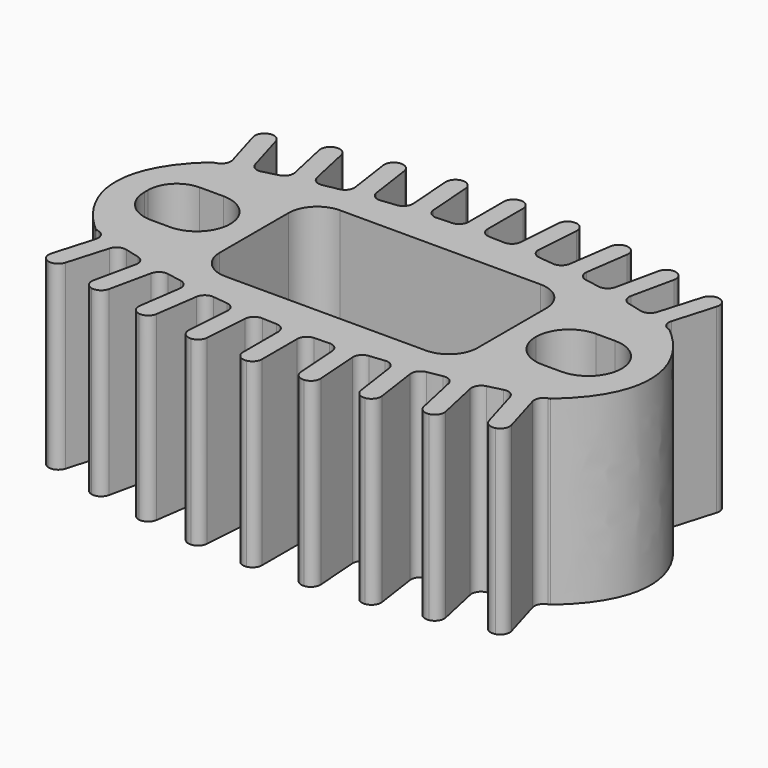
from build123d import *

# Parameters (mm, degrees)
F1_DEPTH = 19


with BuildPart() as f1:
    # F0 (on Top) → F1 (new body)
    with BuildSketch(Plane.XY):
        with BuildLine():
            ThreePointArc((-23.5744510833, 7.7289309208), (-23.7946693875, 7.6570646838), (-24.0146704918, 7.5845362642))
            add(Edge.make_bspline(
                [(-24.0146704918, 7.5845362642), (-32.6467106957, 0), (-24.0146704918, -7.5845362642)],
                knots=[5.7431038594, 5.7431038594, 5.7431038594, 6.823266755, 6.823266755, 6.823266755], degree=2, weights=[1, 0.8576668033, 1]))
            ThreePointArc((-24.0146704918, -7.5845362642), (-23.7946693875, -7.6570646838), (-23.5744510833, -7.7289309208))
            ThreePointArc((-23.5744510833, -7.7289309208), (-22.9988777719, -8.2132908876), (-22.9237665617, -8.9617877281))
            Line((-22.9237665617, -8.9617877281), (-24.1716508667, -13.2116913812))
            ThreePointArc((-24.1716508667, -13.2116913812), (-24.0915152434, -13.9695863582), (-23.5006255556, -14.4509135765))
            ThreePointArc((-23.5006255556, -14.4509135765), (-22.7359954729, -14.3727812885), (-22.2526649195, -13.7751564949))
            Line((-22.2526649195, -13.7751564949), (-21.0078196566, -9.5356028687))
            ThreePointArc((-21.0078196566, -9.5356028687), (-20.5376140383, -8.9452127943), (-19.7886840367, -8.8516306589))
            ThreePointArc((-19.7886840367, -8.8516306589), (-19.0399299681, -9.0489117498), (-18.2892299346, -9.2386535316))
            ThreePointArc((-18.2892299346, -9.2386535316), (-17.6805692737, -9.6807184748), (-17.552252285, -10.4219498588))
            Line((-17.552252285, -10.4219498588), (-18.4994193742, -14.7760066978))
            ThreePointArc((-18.4994193742, -14.7760066978), (-18.36544049, -15.5262222031), (-17.741771863, -15.9641846324))
            ThreePointArc((-17.741771863, -15.9641846324), (-16.9846222925, -15.8317399691), (-16.5451256422, -15.2011372769))
            Line((-16.5451256422, -15.2011372769), (-15.6002514896, -10.8576208968))
            ThreePointArc((-15.6002514896, -10.8576208968), (-15.173361847, -10.235190984), (-14.4330161063, -10.0884192305))
            ThreePointArc((-14.4330161063, -10.0884192305), (-13.6720959054, -10.2317821681), (-12.9097725458, -10.3674861824))
            ThreePointArc((-12.9097725458, -10.3674861824), (-12.2711261305, -10.7650034404), (-12.0902572373, -11.4951922226))
            Line((-12.0902572373, -11.4951922226), (-12.7282319437, -15.9324037699))
            ThreePointArc((-12.7282319437, -15.9324037699), (-12.5410901177, -16.671129066), (-11.8878024384, -17.0634966669))
            ThreePointArc((-11.8878024384, -17.0634966669), (-11.142000044, -16.8773982241), (-10.7485890599, -16.2170334465))
            Line((-10.7485890599, -16.2170334465), (-10.1121495002, -11.7904990785))
            ThreePointArc((-10.1121495002, -11.7904990785), (-9.7307511651, -11.1392010872), (-9.0027623175, -10.939987631))
            ThreePointArc((-9.0027623175, -10.939987631), (-8.2335534592, -11.0287018707), (-7.4634913986, -11.1096766008))
            ThreePointArc((-7.4634913986, -11.1096766008), (-6.7981136247, -11.4606205168), (-6.5656144934, -12.1760458226))
            Line((-6.5656144934, -12.1760458226), (-6.8953114493, -16.7858116084))
            ThreePointArc((-6.8953114493, -16.7858116084), (-6.6033442548, -17.5658757224), (-5.8219505199, -17.8542655552))
            ThreePointArc((-5.8219505199, -17.8542655552), (-5.1891344039, -17.5626357117), (-4.9004072201, -16.9284899748))
            Line((-4.9004072201, -16.9284899748), (-4.5714797982, -12.3294836802))
            ThreePointArc((-4.5714797982, -12.3294836802), (-4.237516289, -11.6526364759), (-3.5255939988, -11.4019964629))
            ThreePointArc((-3.5255939988, -11.4019964629), (-2.7520161951, -11.4356099372), (-1.9781394933, -11.4614427546))
            ThreePointArc((-1.9781394933, -11.4614427546), (-1.2894209734, -11.7640249988), (-1.0064763663, -12.4610411848))
            Line((-1.0064763663, -12.4610411848), (-1.0064763663, -17.0825821273))
            ThreePointArc((-1.0064763663, -17.0825821273), (-0.659603934, -17.8398300261), (0.1403723943, -18.0717410839))
            ThreePointArc((0.1403723943, -18.0717410839), (0.7507715326, -17.735709695), (0.9935236337, -17.0825821273))
            Line((0.9935236337, -17.0825821273), (0.9935236337, -12.4718281599))
            ThreePointArc((0.9935236337, -12.4718281599), (1.2783505154, -11.7728808008), (1.9705784554, -11.4720914352))
            ThreePointArc((1.9705784554, -11.4720914352), (2.7445832293, -11.4504328575), (3.5183310741, -11.4209921241))
            ThreePointArc((3.5183310741, -11.4209921241), (4.2268807883, -11.6736708067), (4.5588290503, -12.3487260382))
            Line((4.5588290503, -12.3487260382), (4.8820707752, -16.8682358998))
            ThreePointArc((4.8820707752, -16.8682358998), (5.2236995592, -17.5518111217), (5.9483195342, -17.7945274207))
            ThreePointArc((5.9483195342, -17.7945274207), (6.6344372949, -17.4527200472), (6.8769750044, -16.7255575334))
            Line((6.8769750044, -16.7255575334), (6.5545028136, -12.216807163))
            ThreePointArc((6.5545028136, -12.216807163), (6.7887416553, -11.4993213245), (7.4577478102, -11.1499153599))
            ThreePointArc((7.4577478102, -11.1499153599), (8.2282354034, -11.0730950974), (8.9979115494, -10.9885308364))
            ThreePointArc((8.9979115494, -10.9885308364), (9.722681851, -11.1900183648), (10.1019422358, -11.8396727151))
            Line((10.1019422358, -11.8396727151), (10.7467785198, -16.3246075829))
            ThreePointArc((10.7467785198, -16.3246075829), (11.1363025708, -16.982069615), (11.8763914797, -17.1724737036))
            ThreePointArc((11.8763914797, -17.1724737036), (12.5363768321, -16.7825901355), (12.7264214035, -16.0399779063))
            Line((12.7264214035, -16.0399779063), (12.0831202662, -11.5657202178))
            ThreePointArc((12.0831202662, -11.5657202178), (12.2655774405, -10.8333520434), (12.9079527083, -10.4371099725))
            ThreePointArc((12.9079527083, -10.4371099725), (13.6709968926, -10.3055194837), (14.4326792468, -10.1662626151))
            ThreePointArc((14.4326792468, -10.1662626151), (15.1699768724, -10.3155322551), (15.5946167559, -10.9364752344))
            Line((15.5946167559, -10.9364752344), (16.5577616611, -15.3639809084))
            ThreePointArc((16.5577616611, -15.3639809084), (16.9931960538, -15.991979475), (17.7449825731, -16.1291010975))
            ThreePointArc((17.7449825731, -16.1291010975), (18.3754723832, -15.6931280921), (18.512055393, -14.9388503293))
            Line((18.512055393, -14.9388503293), (17.5512034243, -10.5218851142))
            ThreePointArc((17.5512034243, -10.5218851142), (17.6809491713, -9.7783665842), (18.2934201548, -9.3373075658))
            ThreePointArc((18.2934201548, -9.3373075658), (19.0451326321, -9.1516174056), (19.7949398356, -8.9583775505))
            ThreePointArc((19.7949398356, -8.9583775505), (20.5410076856, -9.0546686582), (21.0088632003, -9.6437360836))
            Line((21.0088632003, -9.6437360836), (22.285408761, -13.9912510097))
            ThreePointArc((22.285408761, -13.9912510097), (22.7645346216, -14.5865859741), (23.5241878196, -14.6697263901))
            ThreePointArc((23.5241878196, -14.6697263901), (24.1219692558, -14.1898855659), (24.2043947082, -13.427785896))
            Line((24.2043947082, -13.427785896), (22.9308881896, -9.0906209967))
            ThreePointArc((22.9308881896, -9.0906209967), (23.0072613547, -8.3397409111), (23.5867070422, -7.8561124808))
            ThreePointArc((23.5867070422, -7.8561124808), (23.6765094127, -7.8274295941), (23.7662765991, -7.7986367831))
            add(Edge.make_bspline(
                [(23.7662765991, -7.7986367831), (32.9879186893, 0), (23.7662765991, 7.7986367831)],
                knots=[2.5844994751, 2.5844994751, 2.5844994751, 3.6986858321, 3.6986858321, 3.6986858321], degree=2, weights=[1, 0.8487955928, 1]))
            ThreePointArc((23.7662765991, 7.7986367831), (23.6765094127, 7.8274295941), (23.5867070422, 7.8561124808))
            ThreePointArc((23.5867070422, 7.8561124808), (23.0072613547, 8.3397409111), (22.9308881896, 9.0906209967))
            Line((22.9308881896, 9.0906209967), (24.2043947082, 13.427785896))
            ThreePointArc((24.2043947082, 13.427785896), (24.1219692558, 14.1898855659), (23.5241878196, 14.6697263901))
            ThreePointArc((23.5241878196, 14.6697263901), (22.7645346216, 14.5865859741), (22.285408761, 13.9912510097))
            Line((22.285408761, 13.9912510097), (21.0088632003, 9.6437360836))
            ThreePointArc((21.0088632003, 9.6437360836), (20.5410076856, 9.0546686582), (19.7949398356, 8.9583775505))
            ThreePointArc((19.7949398356, 8.9583775505), (19.0451326321, 9.1516174056), (18.2934201548, 9.3373075658))
            ThreePointArc((18.2934201548, 9.3373075658), (17.6809491713, 9.7783665842), (17.5512034243, 10.5218851142))
            Line((17.5512034243, 10.5218851142), (18.512055393, 14.9388503293))
            ThreePointArc((18.512055393, 14.9388503293), (18.3754723832, 15.6931280921), (17.7449825731, 16.1291010975))
            ThreePointArc((17.7449825731, 16.1291010975), (16.9931960538, 15.991979475), (16.5577616611, 15.3639809084))
            Line((16.5577616611, 15.3639809084), (15.5946167559, 10.9364752344))
            ThreePointArc((15.5946167559, 10.9364752344), (15.1699768724, 10.3155322551), (14.4326792468, 10.1662626151))
            ThreePointArc((14.4326792468, 10.1662626151), (13.6709968926, 10.3055194837), (12.9079527083, 10.4371099725))
            ThreePointArc((12.9079527083, 10.4371099725), (12.2655774405, 10.8333520434), (12.0831202662, 11.5657202178))
            Line((12.0831202662, 11.5657202178), (12.7264214035, 16.0399779063))
            ThreePointArc((12.7264214035, 16.0399779063), (12.5363768321, 16.7825901355), (11.8763914797, 17.1724737036))
            ThreePointArc((11.8763914797, 17.1724737036), (11.1363025708, 16.982069615), (10.7467785198, 16.3246075829))
            Line((10.7467785198, 16.3246075829), (10.1019422358, 11.8396727151))
            ThreePointArc((10.1019422358, 11.8396727151), (9.722681851, 11.1900183648), (8.9979115494, 10.9885308364))
            ThreePointArc((8.9979115494, 10.9885308364), (8.2282354034, 11.0730950974), (7.4577478102, 11.1499153599))
            ThreePointArc((7.4577478102, 11.1499153599), (6.7887416553, 11.4993213245), (6.5545028136, 12.216807163))
            Line((6.5545028136, 12.216807163), (6.8769750044, 16.7255575334))
            ThreePointArc((6.8769750044, 16.7255575334), (6.6344372949, 17.4527200472), (5.9483195342, 17.7945274207))
            ThreePointArc((5.9483195342, 17.7945274207), (5.2236995592, 17.5518111217), (4.8820707752, 16.8682358998))
            Line((4.8820707752, 16.8682358998), (4.5588290503, 12.3487260382))
            ThreePointArc((4.5588290503, 12.3487260382), (4.2268807883, 11.6736708067), (3.5183310741, 11.4209921241))
            ThreePointArc((3.5183310741, 11.4209921241), (2.7445832293, 11.4504328575), (1.9705784554, 11.4720914352))
            ThreePointArc((1.9705784554, 11.4720914352), (1.2783505154, 11.7728808008), (0.9935236337, 12.4718281599))
            Line((0.9935236337, 12.4718281599), (0.9935236337, 17.0825821273))
            ThreePointArc((0.9935236337, 17.0825821273), (0.7507715326, 17.735709695), (0.1403723943, 18.0717410839))
            ThreePointArc((0.1403723943, 18.0717410839), (-0.659603934, 17.8398300261), (-1.0064763663, 17.0825821273))
            Line((-1.0064763663, 17.0825821273), (-1.0064763663, 12.4610411848))
            ThreePointArc((-1.0064763663, 12.4610411848), (-1.2894209734, 11.7640249988), (-1.9781394933, 11.4614427546))
            ThreePointArc((-1.9781394933, 11.4614427546), (-2.7520161951, 11.4356099372), (-3.5255939988, 11.4019964629))
            ThreePointArc((-3.5255939988, 11.4019964629), (-4.237516289, 11.6526364759), (-4.5714797982, 12.3294836802))
            Line((-4.5714797982, 12.3294836802), (-4.9004072201, 16.9284899748))
            ThreePointArc((-4.9004072201, 16.9284899748), (-5.1891344039, 17.5626357117), (-5.8219505199, 17.8542655552))
            ThreePointArc((-5.8219505199, 17.8542655552), (-6.6033442548, 17.5658757224), (-6.8953114493, 16.7858116084))
            Line((-6.8953114493, 16.7858116084), (-6.5656144934, 12.1760458226))
            ThreePointArc((-6.5656144934, 12.1760458226), (-6.7981136247, 11.4606205168), (-7.4634913986, 11.1096766008))
            ThreePointArc((-7.4634913986, 11.1096766008), (-8.2335534592, 11.0287018707), (-9.0027623175, 10.939987631))
            ThreePointArc((-9.0027623175, 10.939987631), (-9.7307511651, 11.1392010872), (-10.1121495002, 11.7904990785))
            Line((-10.1121495002, 11.7904990785), (-10.7485890599, 16.2170334465))
            ThreePointArc((-10.7485890599, 16.2170334465), (-11.142000044, 16.8773982241), (-11.8878024384, 17.0634966669))
            ThreePointArc((-11.8878024384, 17.0634966669), (-12.5410901177, 16.671129066), (-12.7282319437, 15.9324037699))
            Line((-12.7282319437, 15.9324037699), (-12.0902572373, 11.4951922226))
            ThreePointArc((-12.0902572373, 11.4951922226), (-12.2711261305, 10.7650034404), (-12.9097725458, 10.3674861824))
            ThreePointArc((-12.9097725458, 10.3674861824), (-13.6720959054, 10.2317821681), (-14.4330161063, 10.0884192305))
            ThreePointArc((-14.4330161063, 10.0884192305), (-15.173361847, 10.235190984), (-15.6002514896, 10.8576208968))
            Line((-15.6002514896, 10.8576208968), (-16.5451256422, 15.2011372769))
            ThreePointArc((-16.5451256422, 15.2011372769), (-16.9846222925, 15.8317399691), (-17.741771863, 15.9641846324))
            ThreePointArc((-17.741771863, 15.9641846324), (-18.36544049, 15.5262222031), (-18.4994193742, 14.7760066978))
            Line((-18.4994193742, 14.7760066978), (-17.552252285, 10.4219498588))
            ThreePointArc((-17.552252285, 10.4219498588), (-17.6805692737, 9.6807184748), (-18.2892299346, 9.2386535316))
            ThreePointArc((-18.2892299346, 9.2386535316), (-19.0399299681, 9.0489117498), (-19.7886840367, 8.8516306589))
            ThreePointArc((-19.7886840367, 8.8516306589), (-20.5376140383, 8.9452127943), (-21.0078196566, 9.5356028687))
            Line((-21.0078196566, 9.5356028687), (-22.2526649195, 13.7751564949))
            ThreePointArc((-22.2526649195, 13.7751564949), (-22.7359954729, 14.3727812885), (-23.5006255556, 14.4509135765))
            ThreePointArc((-23.5006255556, 14.4509135765), (-24.0915152434, 13.9695863582), (-24.1716508667, 13.2116913812))
            Line((-24.1716508667, 13.2116913812), (-22.9237665617, 8.9617877281))
            ThreePointArc((-22.9237665617, 8.9617877281), (-22.9988777719, 8.2132908876), (-23.5744510833, 7.7289309208))
        make_face()
        with BuildLine():
            ThreePointArc((-25, 0.5), (-24.1213203436, 2.6213203436), (-22, 3.5))
            Line((-22, 3.5), (-19.5, 3.5))
            ThreePointArc((-19.5, 3.5), (-17.0251262658, 2.4748737342), (-16, 0))
            ThreePointArc((-16, 0), (-17.0251262658, -2.4748737342), (-19.5, -3.5))
            Line((-19.5, -3.5), (-21.5, -3.5))
            ThreePointArc((-21.5, -3.5), (-23.9748737342, -2.4748737342), (-25, 0))
            Line((-25, 0), (-25, 0.5))
        make_face(mode=Mode.SUBTRACT)
        with BuildLine():
            ThreePointArc((-13.5, 4.5), (-12.6213203436, 6.6213203436), (-10.5, 7.5))
            Line((-10.5, 7.5), (10.5, 7.5))
            ThreePointArc((10.5, 7.5), (12.6213203436, 6.6213203436), (13.5, 4.5))
            Line((13.5, 4.5), (13.5, -4.5))
            ThreePointArc((13.5, -4.5), (12.6213203436, -6.6213203436), (10.5, -7.5))
            Line((10.5, -7.5), (-10.5, -7.5))
            ThreePointArc((-10.5, -7.5), (-12.6213203436, -6.6213203436), (-13.5, -4.5))
            Line((-13.5, -4.5), (-13.5, 4.5))
        make_face(mode=Mode.SUBTRACT)
        with BuildLine():
            ThreePointArc((16, 0), (17.0251262658, 2.4748737342), (19.5, 3.5))
            Line((19.5, 3.5), (21.5, 3.5))
            ThreePointArc((21.5, 3.5), (23.9748737342, 2.4748737342), (25, 0))
            ThreePointArc((25, 0), (23.9748737342, -2.4748737342), (21.5, -3.5))
            Line((21.5, -3.5), (19.5, -3.5))
            ThreePointArc((19.5, -3.5), (17.0251262658, -2.4748737342), (16, 0))
        make_face(mode=Mode.SUBTRACT)
    extrude(amount=F1_DEPTH)


solid = f1.part
